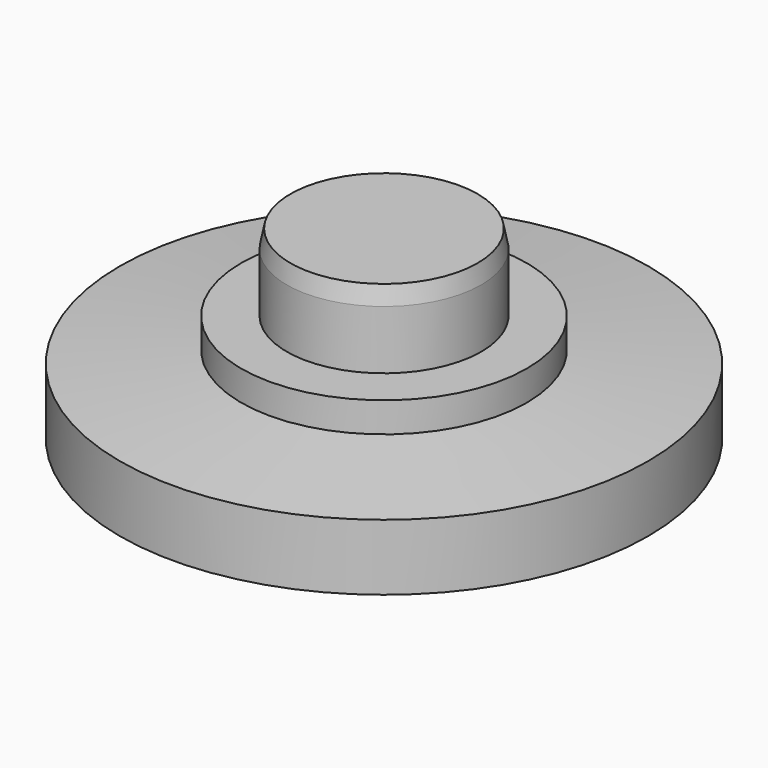
from build123d import *


with BuildPart() as f1:
    # F0 (on Front) → F1 (revolve)
    with BuildSketch(Plane.XZ):
        with BuildLine():
            Line((3.9, 7.7028366029), (0, 7.7028366029))
            Line((0, 7.7028366029), (0, 0.8776605157))
            add(Edge.make_bspline(
                [(5.7185636925, 0.260606561), (2.9917562411, 0.8776605157), (0, 0.8776605157)],
                knots=[1.1467714955, 1.1467714955, 1.1467714955, 1.5707963268, 1.5707963268, 1.5707963268], degree=2, weights=[1, 0.9776094266, 1]))
            Line((5.7185636925, 0.260606561), (11, 0))
            Line((11, 0), (11, 2.75))
            Line((11, 2.75), (5.95, 3.2528366029))
            Line((5.95, 3.2528366029), (5.95, 4.5028366029))
            Line((5.95, 4.5028366029), (4.05, 4.5028366029))
            Line((4.05, 4.5028366029), (4.05, 6.9528366029))
            Line((4.05, 6.9528366029), (3.9, 7.7028366029))
        make_face()
    revolve(axis=Axis((0, 0, 4.2902485593), (0, 0, 1)))


solid = f1.part
